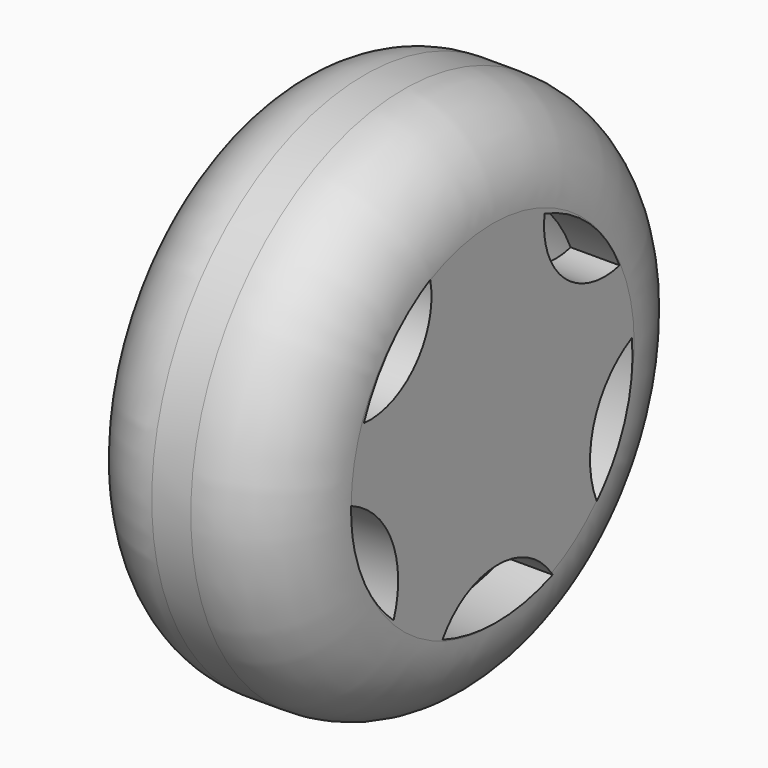
from build123d import *

# Parameters (mm, degrees)
F0_R      = 31.0769
F1_DEPTH  = 25.4
F2_R      = 10.424574
F3_R      = 10.414
F4_R      = 25.4
F5_DEPTH  = 19.685
F6_R      = 6.0325
F7_DEPTH  = 24.892
F7_FACE_R = 6.0325
F8_DEPTH  = 8.509
F9_W      = 4.9276
F9_H      = 3.429
F10_DEPTH = 7.62
F12_DEPTH = 71.12


with BuildPart() as f1:
    # F0 (on Right) → F1 (new body)
    with BuildSketch(Plane.YZ):
        Circle(F0_R)
    extrude(amount=F1_DEPTH)

    # F2
    f2_edges = [f1.edges().sort_by_distance(p)[0] for p in [
        (0, -31.0769, 0),
    ]]
    fillet(f2_edges, radius=F2_R)

    # F3
    f3_edges = [f1.edges().sort_by_distance(p)[0] for p in [
        (25.4, -31.0769, 0),
    ]]
    fillet(f3_edges, radius=F3_R)

    # F4 (on Right) → F5 (cut)
    with BuildSketch(Plane.YZ):
        Circle(F4_R)
    extrude(amount=F5_DEPTH, mode=Mode.SUBTRACT)

    # F11 (on Right) → F12 (cut)
    with BuildSketch(Plane.YZ):
        with BuildLine():
            ThreePointArc((-9.122276, 18.581567), (-14.961864, 14.054297), (-18.827951, 7.757445))
            ThreePointArc((-18.827951, 7.757445), (-11.258642, 10.733726), (-9.122276, 18.581567))
        make_face()
        with BuildLine():
            ThreePointArc((-20.675972, 0), (-19.155957, -7.830398), (-14.471901, -14.286805))
            ThreePointArc((-14.471901, -14.286805), (-14.749676, -5.916962), (-20.675972, 0))
        make_face()
        with BuildLine():
            ThreePointArc((18.528473, 8.813457), (14.127296, 14.90537), (7.572349, 18.581567))
            ThreePointArc((7.572349, 18.581567), (10.450579, 10.781484), (18.528473, 8.813457))
        make_face()
        with BuildLine():
            ThreePointArc((-7.34382, -19.170862), (0.720515, -20.598594), (8.760363, -19.03886))
            ThreePointArc((8.760363, -19.03886), (0.672471, -14.737282), (-7.34382, -19.170862))
        make_face()
        with BuildLine():
            ThreePointArc((15.195413, -14.075226), (19.389817, -7.290497), (20.32734, 0.63078))
            ThreePointArc((20.32734, 0.63078), (14.854247, -5.707728), (15.195413, -14.075226))
        make_face()
    extrude(amount=F12_DEPTH, mode=Mode.SUBTRACT)


with BuildPart() as f7:
    # F6 (on Right) → F7 (new body)
    with BuildSketch(Plane.YZ):
        Circle(F6_R)
    extrude(amount=F7_DEPTH)

    # F7_face (on face) → F8 (join)
    with BuildSketch(Plane(origin=(0, 0, 0), x_dir=(0, 1, 0), z_dir=(-1, 0, 0))):
        Circle(F7_FACE_R)
    extrude(amount=F8_DEPTH)

    # F9 (on face) → F10 (cut)
    with BuildSketch(Plane(origin=(-8.509, 0, 0), x_dir=(0, -1, 0), z_dir=(-1, 0, 0))):
        Rectangle(F9_W, F9_H)
    extrude(amount=-F10_DEPTH, mode=Mode.SUBTRACT)


solid = Compound([f1.part, f7.part])
